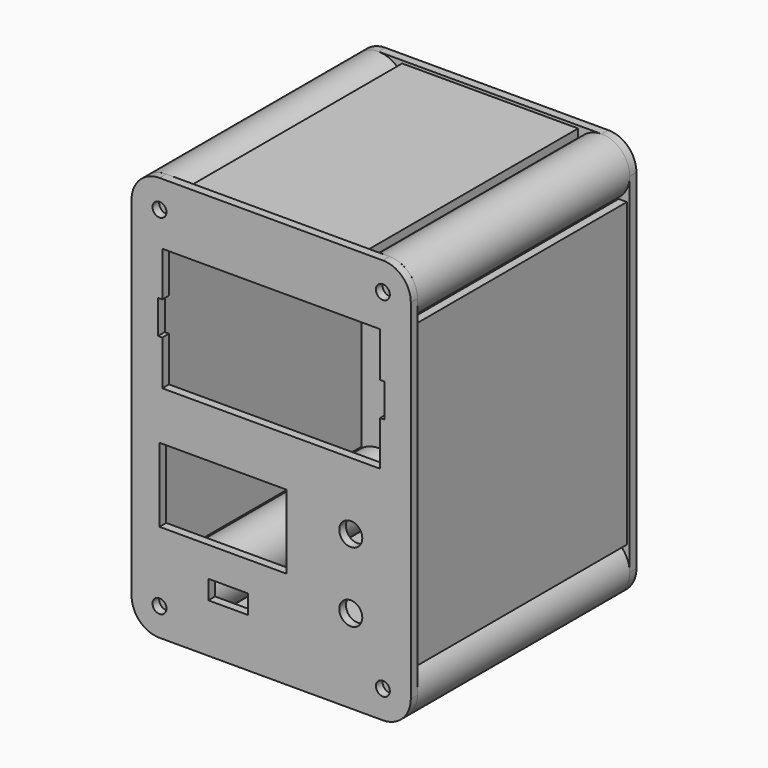
from build123d import *

# Parameters (mm, degrees)
SKETCH008_W         = 63
SKETCH008_H         = 95
PAD002_DEPTH        = 3
SKETCH012_W         = 95
SKETCH012_H         = 108
PAD005_DEPTH        = 3
SKETCH_R            = 5
SKETCH_R_2          = 1.75
PAD001_DEPTH        = 3
POCKET_DEPTH        = 3.001
LINEARPATTERN_COUNT = 10
LINEARPATTERN_PITCH = 10
SKETCH010_R         = 10
PAD003_DEPTH        = 95
SKETCH006_R         = 2.5
SKETCH006_R_2       = 4.125
SKETCH006_W         = 14.2
SKETCH006_H         = 6.8
SKETCH006_W_2       = 45.5
SKETCH006_H_2       = 26.5
PAD_DEPTH           = 3
SKETCH011_W         = 63
SKETCH011_H         = 95
PAD004_DEPTH        = 3
SKETCH013_W         = 95
SKETCH013_H         = 108
PAD006_DEPTH        = 3


with BuildPart() as topside:
    # Sketch008 → Pad002 (new body)
    with BuildSketch(Plane.XY):
        Rectangle(SKETCH008_W, SKETCH008_H)
    extrude(amount=PAD002_DEPTH)


with BuildPart() as topside_1:
    # Body002 placement: moved
    add(topside.part.moved(Location((0, 0, 68.5))))


with BuildPart() as rightside:
    # Sketch012 → Pad005 (new body)
    with BuildSketch(Plane.YZ):
        Rectangle(SKETCH012_W, SKETCH012_H)
    extrude(amount=PAD005_DEPTH)


with BuildPart() as rightside_1:
    # Body003 placement: moved
    add(rightside.part.moved(Location((46, 0, 0))))


with BuildPart() as rearside:
    # Sketch → Pad001 (new body)
    with BuildSketch(Plane.XZ):
        with BuildLine():
            Line((-50, 62.5), (-50, -62.5))
            ThreePointArc((-50, -62.5), (-47.071068, -69.571068), (-40, -72.5))
            Line((-40, -72.5), (40, -72.5))
            ThreePointArc((40, -72.5), (47.071068, -69.571068), (50, -62.5))
            Line((50, -62.5), (50, 62.5))
            ThreePointArc((50, 62.5), (47.071068, 69.571068), (40, 72.5))
            Line((40, 72.5), (-40, 72.5))
            ThreePointArc((-40, 72.5), (-47.071068, 69.571068), (-50, 62.5))
        make_face()
        with Locations((40, -62.5)):
            Circle(SKETCH_R, mode=Mode.SUBTRACT)
        with Locations((-40, -62.5)):
            Circle(SKETCH_R, mode=Mode.SUBTRACT)
        with Locations((-40, 62.5)):
            Circle(SKETCH_R, mode=Mode.SUBTRACT)
        with Locations((40, 62.5)):
            Circle(SKETCH_R, mode=Mode.SUBTRACT)
        with Locations((-28, -53)):
            Circle(SKETCH_R_2, mode=Mode.SUBTRACT)
        with Locations((28, -53)):
            Circle(SKETCH_R_2, mode=Mode.SUBTRACT)
        with Locations((-28, 53)):
            Circle(SKETCH_R_2, mode=Mode.SUBTRACT)
        with Locations((28, 53)):
            Circle(SKETCH_R_2, mode=Mode.SUBTRACT)
    extrude(amount=-PAD001_DEPTH)

    # Sketch007 → Pocket (cut, through all)
    with BuildSketch(Plane.XZ):
        with BuildLine():
            ThreePointArc((-21.25, 46), (-22.25, 45), (-21.25, 44))
            Line((-21.25, 44), (21.25, 44))
            ThreePointArc((21.25, 44), (22.25, 45), (21.25, 46))
            Line((-21.25, 46), (21.25, 46))
        make_face()
    pocket = extrude(amount=-POCKET_DEPTH, mode=Mode.SUBTRACT)

    # LinearPattern: Pocket ×10
    with Locations(*[(0, 0, -i * LINEARPATTERN_PITCH) for i in range(1, LINEARPATTERN_COUNT)]):
        add(pocket, mode=Mode.SUBTRACT)

    # Sketch010 → Pad003 (join)
    with BuildSketch(Plane.XZ):
        with Locations((-40, 62.5)):
            Circle(SKETCH010_R)
        with Locations((40, 62.5)):
            Circle(SKETCH010_R)
        with Locations((-40, -62.5)):
            Circle(SKETCH010_R)
        with Locations((40, -62.5)):
            Circle(SKETCH010_R)
    extrude(amount=PAD003_DEPTH)


with BuildPart() as rearside_1:
    # Body005 placement: moved
    add(rearside.part.moved(Location((0, 47.5, 0))))


with BuildPart() as frontside:
    # Sketch006 → Pad (new body)
    with BuildSketch(Plane.XZ):
        with BuildLine():
            Line((-50, 62.5), (-50, -62.5))
            ThreePointArc((-50, -62.5), (-47.071068, -69.571068), (-40, -72.5))
            Line((-40, -72.5), (40, -72.5))
            ThreePointArc((40, -72.5), (47.071068, -69.571068), (50, -62.5))
            Line((50, -62.5), (50, 62.5))
            ThreePointArc((50, 62.5), (47.071068, 69.571068), (40, 72.5))
            Line((40, 72.5), (-40, 72.5))
            ThreePointArc((-40, 72.5), (-47.071068, 69.571068), (-50, 62.5))
        make_face()
        with Locations((40, -62.5)):
            Circle(SKETCH006_R, mode=Mode.SUBTRACT)
        with Locations((-40, -62.5)):
            Circle(SKETCH006_R, mode=Mode.SUBTRACT)
        with Locations((-40, 62.5)):
            Circle(SKETCH006_R, mode=Mode.SUBTRACT)
        with Locations((40, 62.5)):
            Circle(SKETCH006_R, mode=Mode.SUBTRACT)
        with Locations((28.5, -42.5)):
            Circle(SKETCH006_R_2, mode=Mode.SUBTRACT)
        with Locations((28.5, -17.5)):
            Circle(SKETCH006_R_2, mode=Mode.SUBTRACT)
        Polygon((-39, 50.5), (39, 50.5), (39, 34.5), (40.5, 34.5), (40.5, 22.5), (39, 22.5), (39, 6.5), (-39, 6.5), (-39, 22.5), (-40.5, 22.5), (-40.5, 34.5), (-39, 34.5), align=None, mode=Mode.SUBTRACT)
        with Locations((-15.4, -51.6)):
            Rectangle(SKETCH006_W, SKETCH006_H, mode=Mode.SUBTRACT)
        with Locations((-17.25, -24.25)):
            Rectangle(SKETCH006_W_2, SKETCH006_H_2, mode=Mode.SUBTRACT)
    extrude(amount=PAD_DEPTH)


with BuildPart() as frontside_1:
    # Body006 placement: moved
    add(frontside.part.moved(Location((0, -47.5, 0))))


with BuildPart() as bottomside:
    # Sketch011 → Pad004 (new body)
    with BuildSketch(Plane.XY):
        Rectangle(SKETCH011_W, SKETCH011_H)
    extrude(amount=PAD004_DEPTH)


with BuildPart() as bottomside_1:
    # Body007 placement: moved
    add(bottomside.part.moved(Location((0, 0, -71.5))))


with BuildPart() as leftside:
    # Sketch013 → Pad006 (new body)
    with BuildSketch(Plane.YZ):
        Rectangle(SKETCH013_W, SKETCH013_H)
    extrude(amount=PAD006_DEPTH)


with BuildPart() as leftside_1:
    # Body008 placement: moved
    add(leftside.part.moved(Location((-49, 0, 0))))


solid = Compound([topside_1.part, rightside_1.part, rearside_1.part, frontside_1.part, bottomside_1.part, leftside_1.part])
